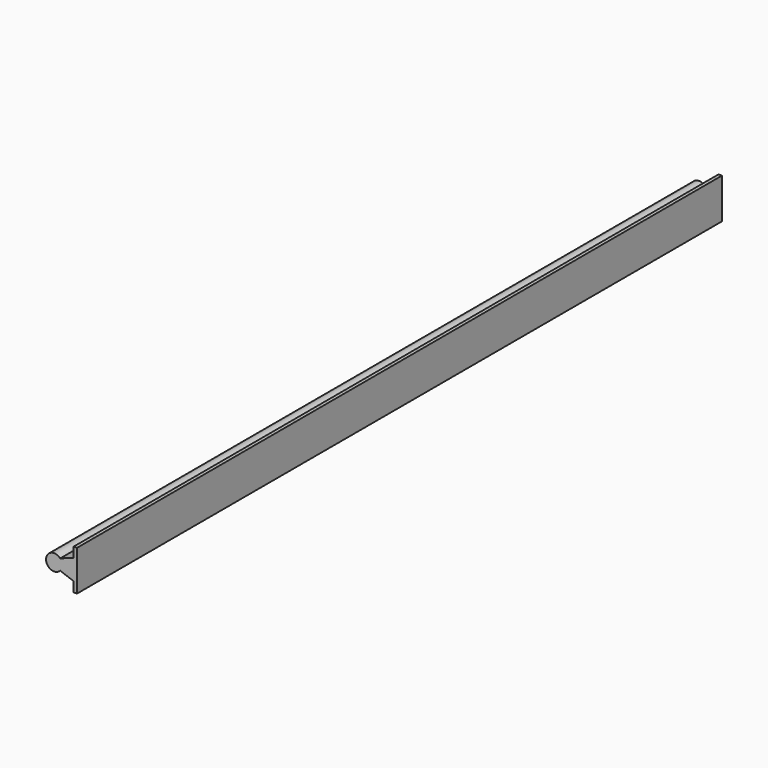
from build123d import *

# Parameters (mm, degrees)
F1_DEPTH      = 300
F1_DEPTH_BACK = 300


with BuildPart() as f1:
    # F0 (on Front) → F1 (new body, two sides)
    with BuildSketch(Plane.XZ) as f1_sk:
        with BuildLine():
            Line((14.5, 7.649844), (4.472136, 4))
            ThreePointArc((4.472136, 4), (-6, 0), (4.472136, -4))
            Line((4.472136, -4), (14.5, -7.649844))
            Line((14.5, -7.649844), (14.5, -15))
            Line((14.5, -15), (17, -15))
            Line((17, -15), (17, 15))
            Line((17, 15), (14.5, 15))
            Line((14.5, 15), (14.5, 7.649844))
        make_face()
    extrude(amount=F1_DEPTH)
    extrude(f1_sk.sketch, amount=-F1_DEPTH_BACK)


solid = f1.part
